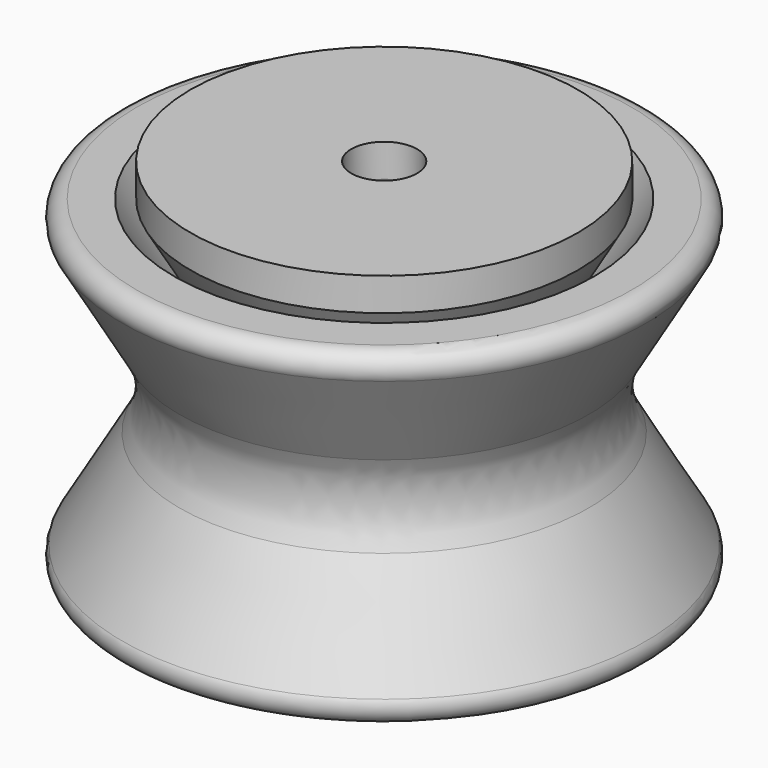
from build123d import *

# Parameters (mm, degrees)
F2_R     = 5
F3_R     = 1
F4_DEPTH = 2


with BuildPart() as f1:
    # F0 (on Front) → F1 (revolve)
    with BuildSketch(Plane.XZ):
        Polygon((-2, -10), (-2, 10), (-11.7735026919, 10), (-6, 0), (-11.7735026919, -10), align=None)
    revolve(axis=Axis((0, 0, 0), (0, 0, -1)))

    # F4 (add): a face of the model
    f4_faces = [f1.faces().sort_by_distance(p)[0] for p in [
        (2.3330049437, 0, 10),
    ]]
    extrude(f4_faces, amount=F4_DEPTH)


with BuildPart() as f1b:
    # F0 (on Front) → F1, piece 2 (revolve)
    with BuildSketch(Plane.XZ):
        Polygon((-7, 0), (-12.7735026919, 10), (-16.7735026919, 10), (-11, 0), (-16.7735026919, -10), (-12.7735026919, -10), align=None)
    revolve(axis=Axis((0, 0, 0), (0, 0, -1)))

    # F2
    f2_edges = [f1b.edges().sort_by_distance(p)[0] for p in [
        (11, 0, 0),
    ]]
    fillet(f2_edges, radius=F2_R)

    # F3
    f3_edges = [f1b.edges().sort_by_distance(p)[0] for p in [
        (16.773503, 0, 10),
        (16.773503, 0, -10),
    ]]
    fillet(f3_edges, radius=F3_R)


solid = Compound([f1.part, f1b.part])
